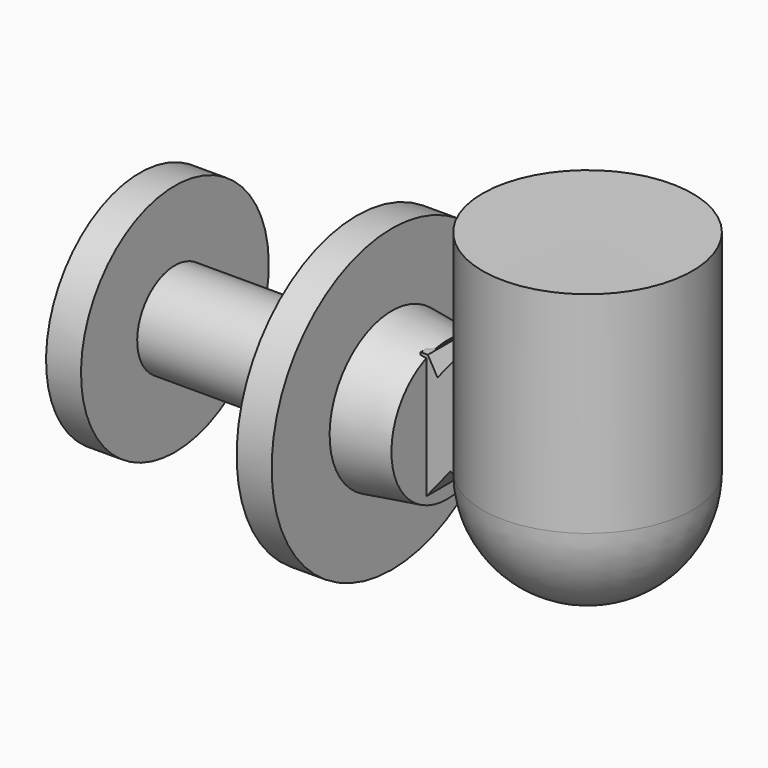
from build123d import *

# Parameters (mm, degrees)
F5_DEPTH = 7.5


with BuildPart() as f1:
    # F0 (on Front) → F1 (revolve)
    with BuildSketch(Plane.XZ):
        Polygon((44.959891, 0), (-50.040109, 0), (-50.040109, -15), (-42.927807, -17.032085), (-42.927807, -33.542781), (-32.927807, -33.542781), (-32.927807, -13.475936), (19.072193, -13.475936), (19.072193, -42.941179), (29.072193, -42.941179), (29.072193, -22.225936), (44.959891, -20), align=None)
    revolve(axis=Axis((-2.540109, 0, 0), (-1, 0, 0)))


with BuildPart() as f3:
    # F2 (on Front) → F3 (revolve)
    with BuildSketch(Plane.XZ):
        with BuildLine():
            Line((84.999505, 60), (55, 60.172413))
            Line((55, 60.172413), (55, 0))
            ThreePointArc((55, 0), (63.786651, -21.212853), (84.999505, -29.999505))
            Line((84.999505, -29.999505), (84.999505, 60))
        make_face()
    revolve(axis=Axis((84.999505, 0, 15), (0, 0, 1)))


with BuildPart() as f5:
    # F4 (on Front) → F5 (new body, symmetric)
    with BuildSketch(Plane.XZ):
        Polygon((48.13274, 14.643121), (45.365538, 19.485727), (43.298421, 19.485727), (43.298421, -18.294775), (51.822346, -7.725109), (59.662756, -11.645314), (59.662756, 28.940339), align=None)
    extrude(amount=F5_DEPTH, both=True)


solid = Compound([f1.part, f3.part, f5.part])
